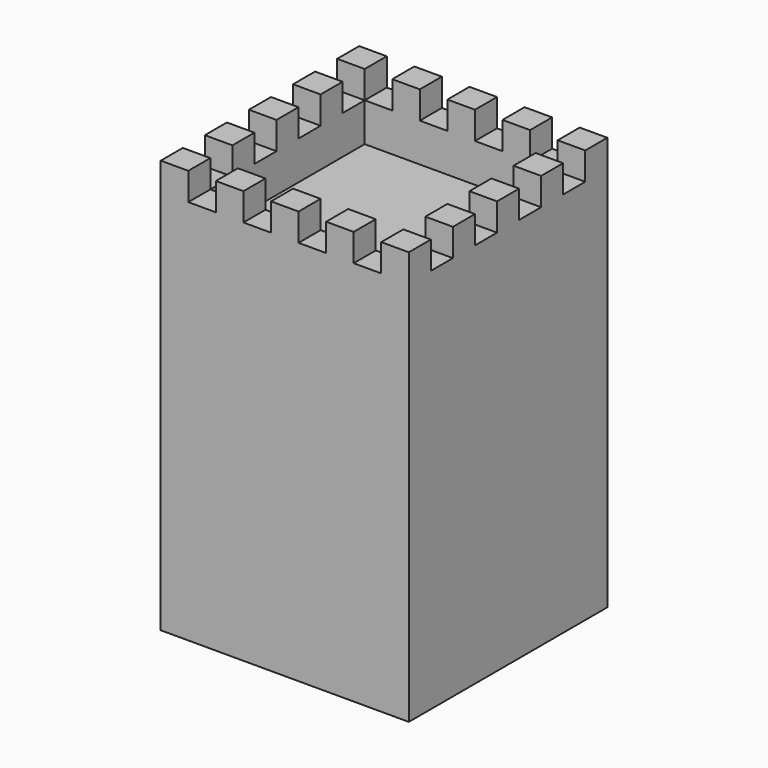
from build123d import *

# Parameters (mm, degrees)
BOX003_W      = 70
BOX003_H      = 70
BOX003_DEPTH  = 25
BOX001_W      = 10
BOX001_H      = 10
BOX001_DEPTH  = 10
ARRAY_X_COUNT = 5
ARRAY_X_PITCH = 20
ARRAY_Y_COUNT = 5
ARRAY_Y_PITCH = 20
BOX002_W      = 90
BOX002_H      = 90
BOX002_DEPTH  = 10
BOX_W         = 90
BOX_H         = 90
BOX_DEPTH     = 150


with BuildPart() as cub003:
    # Box003 → Box003 (new body)
    with BuildSketch(Plane(origin=(10, 10, 126), x_dir=(1, 0, 0), z_dir=(0, 0, 1))):
        with Locations((35, 35)):
            Rectangle(BOX003_W, BOX003_H)
    extrude(amount=BOX003_DEPTH)


with BuildPart() as array:
    # Box001 → Box001 (new body)
    with BuildSketch(Plane.XY):
        with Locations((5, 5)):
            Rectangle(BOX001_W, BOX001_H)
    extrude(amount=BOX001_DEPTH)

    # Array X: Array ×5


with BuildPart() as array_1:
    add(array.part)
    with Locations(*[(i * ARRAY_X_PITCH, 0, 0) for i in range(1, ARRAY_X_COUNT)]):
        add(array.part)

    # Array Y: Array ×5


with BuildPart() as array_2:
    add(array_1.part)
    with Locations(*[(0, i * ARRAY_Y_PITCH, 0) for i in range(1, ARRAY_Y_COUNT)]):
        add(array_1.part)


with BuildPart() as cut:
    # Box002 → Box002 (new body)
    with BuildSketch(Plane.XY):
        with Locations((45, 45)):
            Rectangle(BOX002_W, BOX002_H)
    extrude(amount=BOX002_DEPTH)

    # Cut: cut Array
    add(array_2.part, mode=Mode.SUBTRACT)


with BuildPart() as cut_1:
    # Cut placement: moved
    add(cut.part.moved(Location((0, 0, 140))))


with BuildPart() as cut002:
    # Box → Box (new body)
    with BuildSketch(Plane.XY):
        with Locations((45, 45)):
            Rectangle(BOX_W, BOX_H)
    extrude(amount=BOX_DEPTH)

    # Cut001: cut Cut
    add(cut_1.part, mode=Mode.SUBTRACT)

    # Cut002: cut Cub003
    add(cub003.part, mode=Mode.SUBTRACT)


solid = cut002.part
